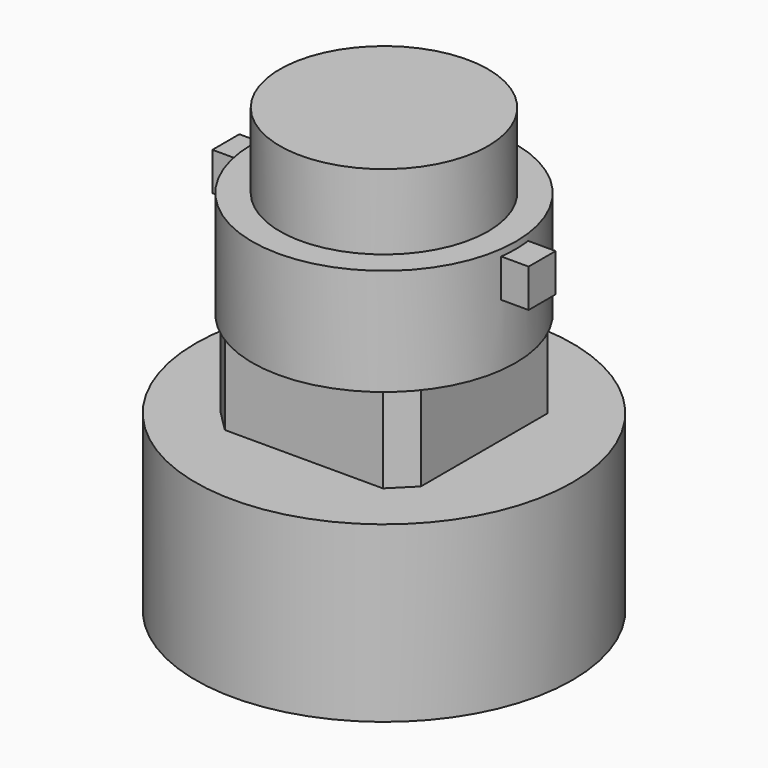
from build123d import *

# Parameters (mm, degrees)
F0_W     = 71.5
F0_H     = 66
F3_DEPTH = 33
F4_R     = 50
F5_DEPTH = 40.5
F6_R     = 39.5
F7_DEPTH = 28.5
F8_W     = 12.8
F8_H     = 14.5
F9_DEPTH = 60


with BuildPart() as f1:
    # F0 (on Front) → F1 (revolve)
    with BuildSketch(Plane.XZ):
        with Locations((35.75, 33)):
            Rectangle(F0_W, F0_H)
    revolve(axis=Axis((0, 0, 33), (0, 0, 1)))

    # F2 (on face) → F3 (join)
    with BuildSketch(Plane.XY.offset(66)):
        Polygon((38, 30), (30, 38), (-30, 38), (-38, 30), (-38, -30), (-30, -38), (30, -38), (38, -30), align=None)
    extrude(amount=F3_DEPTH)

    # F4 (on face) → F5 (join)
    with BuildSketch(Plane.XY.offset(99)):
        Circle(F4_R)
        Polygon((30, 38), (38, 30), (38, -30), (30, -38), (-30, -38), (-38, -30), (-38, 30), (-30, 38), align=None, mode=Mode.SUBTRACT)
        Polygon((38, -30), (38, 30), (30, 38), (-30, 38), (-38, 30), (-38, -30), (-30, -38), (30, -38), align=None)
    extrude(amount=F5_DEPTH)

    # F6 (on face) → F7 (join)
    with BuildSketch(Plane.XY.offset(139.5)):
        Circle(F6_R)
    extrude(amount=F7_DEPTH)

    # F8 (on Right) → F9 (join, symmetric)
    with BuildSketch(Plane.YZ):
        with Locations((0, 129.75)):
            Rectangle(F8_W, F8_H)
    extrude(amount=F9_DEPTH, both=True)


solid = f1.part
